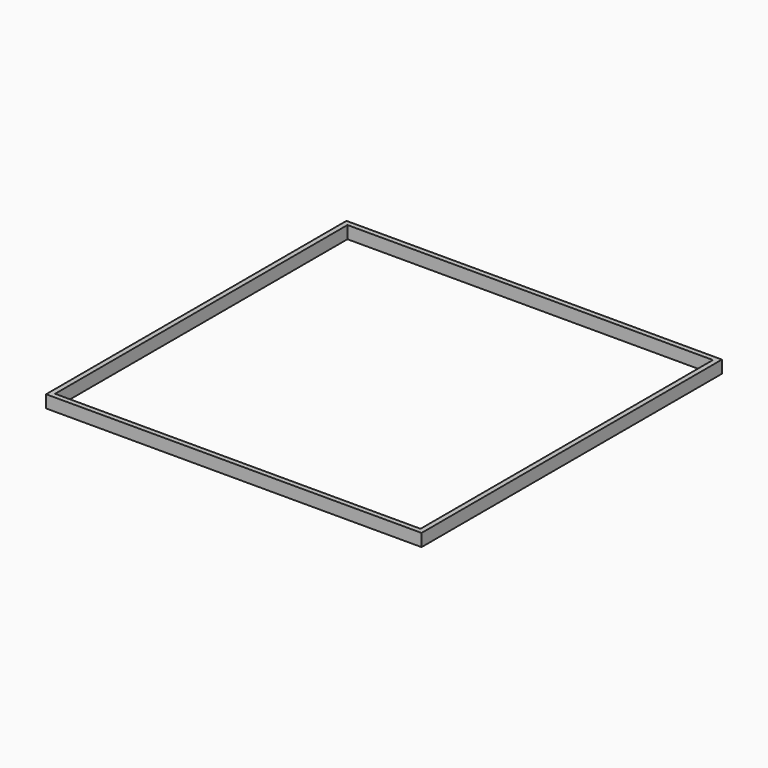
from build123d import *

# Parameters (mm, degrees)
F0_W     = 0.508
F0_H     = 0.508
F1_DEPTH = 1.27
F2_R     = 1.5875
F3_DEPTH = 25.4


with BuildPart() as f1:
    # F0 (on Top) → F1 (new body)
    with BuildSketch(Plane.XY):
        with Locations((18.796, -18.796)):
            Rectangle(F0_W, F0_H)
        with Locations((18.288, -18.796)):
            Rectangle(F0_W, F0_H)
        with Locations((18.796, -18.288)):
            Rectangle(F0_W, F0_H)
        with Locations((17.78, -18.796)):
            Rectangle(F0_W, F0_H)
        with Locations((18.796, -17.78)):
            Rectangle(F0_W, F0_H)
        with Locations((17.272, -18.796)):
            Rectangle(F0_W, F0_H)
        with Locations((18.796, -17.272)):
            Rectangle(F0_W, F0_H)
        with Locations((16.764, -18.796)):
            Rectangle(F0_W, F0_H)
        with Locations((18.796, -16.764)):
            Rectangle(F0_W, F0_H)
        with Locations((16.256, -18.796)):
            Rectangle(F0_W, F0_H)
        with Locations((18.796, -16.256)):
            Rectangle(F0_W, F0_H)
        with Locations((15.748, -18.796)):
            Rectangle(F0_W, F0_H)
        with Locations((18.796, -15.748)):
            Rectangle(F0_W, F0_H)
        with Locations((15.24, -18.796)):
            Rectangle(F0_W, F0_H)
        with Locations((18.796, -15.24)):
            Rectangle(F0_W, F0_H)
        with Locations((14.732, -18.796)):
            Rectangle(F0_W, F0_H)
        with Locations((18.796, -14.732)):
            Rectangle(F0_W, F0_H)
        with Locations((14.224, -18.796)):
            Rectangle(F0_W, F0_H)
        with Locations((18.796, -14.224)):
            Rectangle(F0_W, F0_H)
        with Locations((13.716, -18.796)):
            Rectangle(F0_W, F0_H)
        with Locations((18.796, -13.716)):
            Rectangle(F0_W, F0_H)
        with Locations((13.208, -18.796)):
            Rectangle(F0_W, F0_H)
        with Locations((18.796, -13.208)):
            Rectangle(F0_W, F0_H)
        with Locations((12.7, -18.796)):
            Rectangle(F0_W, F0_H)
        with Locations((18.796, -12.7)):
            Rectangle(F0_W, F0_H)
        with Locations((12.192, -18.796)):
            Rectangle(F0_W, F0_H)
        with Locations((18.796, -12.192)):
            Rectangle(F0_W, F0_H)
        with Locations((11.684, -18.796)):
            Rectangle(F0_W, F0_H)
        with Locations((18.796, -11.684)):
            Rectangle(F0_W, F0_H)
        with Locations((11.176, -18.796)):
            Rectangle(F0_W, F0_H)
        with Locations((18.796, -11.176)):
            Rectangle(F0_W, F0_H)
        with Locations((10.668, -18.796)):
            Rectangle(F0_W, F0_H)
        with Locations((18.796, -10.668)):
            Rectangle(F0_W, F0_H)
        with Locations((10.16, -18.796)):
            Rectangle(F0_W, F0_H)
        with Locations((18.796, -10.16)):
            Rectangle(F0_W, F0_H)
        with Locations((9.652, -18.796)):
            Rectangle(F0_W, F0_H)
        with Locations((18.796, -9.652)):
            Rectangle(F0_W, F0_H)
        with Locations((9.144, -18.796)):
            Rectangle(F0_W, F0_H)
        with Locations((18.796, -9.144)):
            Rectangle(F0_W, F0_H)
        with Locations((8.636, -18.796)):
            Rectangle(F0_W, F0_H)
        with Locations((18.796, -8.636)):
            Rectangle(F0_W, F0_H)
        with Locations((8.128, -18.796)):
            Rectangle(F0_W, F0_H)
        with Locations((18.796, -8.128)):
            Rectangle(F0_W, F0_H)
        with Locations((7.62, -18.796)):
            Rectangle(F0_W, F0_H)
        with Locations((18.796, -7.62)):
            Rectangle(F0_W, F0_H)
        with Locations((7.112, -18.796)):
            Rectangle(F0_W, F0_H)
        with Locations((18.796, -7.112)):
            Rectangle(F0_W, F0_H)
        with Locations((6.604, -18.796)):
            Rectangle(F0_W, F0_H)
        with Locations((18.796, -6.604)):
            Rectangle(F0_W, F0_H)
        with Locations((6.096, -18.796)):
            Rectangle(F0_W, F0_H)
        with Locations((18.796, -6.096)):
            Rectangle(F0_W, F0_H)
        with Locations((5.588, -18.796)):
            Rectangle(F0_W, F0_H)
        with Locations((18.796, -5.588)):
            Rectangle(F0_W, F0_H)
        with Locations((5.08, -18.796)):
            Rectangle(F0_W, F0_H)
        with Locations((18.796, -5.08)):
            Rectangle(F0_W, F0_H)
        with Locations((4.572, -18.796)):
            Rectangle(F0_W, F0_H)
        with Locations((18.796, -4.572)):
            Rectangle(F0_W, F0_H)
        with Locations((4.064, -18.796)):
            Rectangle(F0_W, F0_H)
        with Locations((18.796, -4.064)):
            Rectangle(F0_W, F0_H)
        with Locations((3.556, -18.796)):
            Rectangle(F0_W, F0_H)
        with Locations((18.796, -3.556)):
            Rectangle(F0_W, F0_H)
        with Locations((3.048, -18.796)):
            Rectangle(F0_W, F0_H)
        with Locations((18.796, -3.048)):
            Rectangle(F0_W, F0_H)
        with Locations((2.54, -18.796)):
            Rectangle(F0_W, F0_H)
        with Locations((18.796, -2.54)):
            Rectangle(F0_W, F0_H)
        with Locations((2.032, -18.796)):
            Rectangle(F0_W, F0_H)
        with Locations((18.796, -2.032)):
            Rectangle(F0_W, F0_H)
        with Locations((1.524, -18.796)):
            Rectangle(F0_W, F0_H)
        with Locations((18.796, -1.524)):
            Rectangle(F0_W, F0_H)
        with Locations((1.016, -18.796)):
            Rectangle(F0_W, F0_H)
        with Locations((18.796, -1.016)):
            Rectangle(F0_W, F0_H)
        with Locations((0.508, -18.796)):
            Rectangle(F0_W, F0_H)
        with Locations((18.796, -0.508)):
            Rectangle(F0_W, F0_H)
        with Locations((0, -18.796)):
            Rectangle(F0_W, F0_H)
        with Locations((18.796, 0)):
            Rectangle(F0_W, F0_H)
        with Locations((-0.508, -18.796)):
            Rectangle(F0_W, F0_H)
        with Locations((18.796, 0.508)):
            Rectangle(F0_W, F0_H)
        with Locations((-1.016, -18.796)):
            Rectangle(F0_W, F0_H)
        with Locations((18.796, 1.016)):
            Rectangle(F0_W, F0_H)
        with Locations((-1.524, -18.796)):
            Rectangle(F0_W, F0_H)
        with Locations((18.796, 1.524)):
            Rectangle(F0_W, F0_H)
        with Locations((-2.032, -18.796)):
            Rectangle(F0_W, F0_H)
        with Locations((18.796, 2.032)):
            Rectangle(F0_W, F0_H)
        with Locations((-2.54, -18.796)):
            Rectangle(F0_W, F0_H)
        with Locations((18.796, 2.54)):
            Rectangle(F0_W, F0_H)
        with Locations((-3.048, -18.796)):
            Rectangle(F0_W, F0_H)
        with Locations((18.796, 3.048)):
            Rectangle(F0_W, F0_H)
        with Locations((-3.556, -18.796)):
            Rectangle(F0_W, F0_H)
        with Locations((18.796, 3.556)):
            Rectangle(F0_W, F0_H)
        with Locations((-4.064, -18.796)):
            Rectangle(F0_W, F0_H)
        with Locations((18.796, 4.064)):
            Rectangle(F0_W, F0_H)
        with Locations((-4.572, -18.796)):
            Rectangle(F0_W, F0_H)
        with Locations((18.796, 4.572)):
            Rectangle(F0_W, F0_H)
        with Locations((-5.08, -18.796)):
            Rectangle(F0_W, F0_H)
        with Locations((18.796, 5.08)):
            Rectangle(F0_W, F0_H)
        with Locations((-5.588, -18.796)):
            Rectangle(F0_W, F0_H)
        with Locations((18.796, 5.588)):
            Rectangle(F0_W, F0_H)
        with Locations((-6.096, -18.796)):
            Rectangle(F0_W, F0_H)
        with Locations((18.796, 6.096)):
            Rectangle(F0_W, F0_H)
        with Locations((-6.604, -18.796)):
            Rectangle(F0_W, F0_H)
        with Locations((18.796, 6.604)):
            Rectangle(F0_W, F0_H)
        with Locations((-7.112, -18.796)):
            Rectangle(F0_W, F0_H)
        with Locations((18.796, 7.112)):
            Rectangle(F0_W, F0_H)
        with Locations((-7.62, -18.796)):
            Rectangle(F0_W, F0_H)
        with Locations((18.796, 7.62)):
            Rectangle(F0_W, F0_H)
        with Locations((-8.128, -18.796)):
            Rectangle(F0_W, F0_H)
        with Locations((18.796, 8.128)):
            Rectangle(F0_W, F0_H)
        with Locations((-8.636, -18.796)):
            Rectangle(F0_W, F0_H)
        with Locations((18.796, 8.636)):
            Rectangle(F0_W, F0_H)
        with Locations((-9.144, -18.796)):
            Rectangle(F0_W, F0_H)
        with Locations((18.796, 9.144)):
            Rectangle(F0_W, F0_H)
        with Locations((-9.652, -18.796)):
            Rectangle(F0_W, F0_H)
        with Locations((18.796, 9.652)):
            Rectangle(F0_W, F0_H)
        with Locations((-10.16, -18.796)):
            Rectangle(F0_W, F0_H)
        with Locations((18.796, 10.16)):
            Rectangle(F0_W, F0_H)
        with Locations((-10.668, -18.796)):
            Rectangle(F0_W, F0_H)
        with Locations((18.796, 10.668)):
            Rectangle(F0_W, F0_H)
        with Locations((-11.176, -18.796)):
            Rectangle(F0_W, F0_H)
        with Locations((18.796, 11.176)):
            Rectangle(F0_W, F0_H)
        with Locations((-11.684, -18.796)):
            Rectangle(F0_W, F0_H)
        with Locations((18.796, 11.684)):
            Rectangle(F0_W, F0_H)
        with Locations((-12.192, -18.796)):
            Rectangle(F0_W, F0_H)
        with Locations((18.796, 12.192)):
            Rectangle(F0_W, F0_H)
        with Locations((-12.7, -18.796)):
            Rectangle(F0_W, F0_H)
        with Locations((18.796, 12.7)):
            Rectangle(F0_W, F0_H)
        with Locations((-13.208, -18.796)):
            Rectangle(F0_W, F0_H)
        with Locations((18.796, 13.208)):
            Rectangle(F0_W, F0_H)
        with Locations((-13.716, -18.796)):
            Rectangle(F0_W, F0_H)
        with Locations((18.796, 13.716)):
            Rectangle(F0_W, F0_H)
        with Locations((-14.224, -18.796)):
            Rectangle(F0_W, F0_H)
        with Locations((18.796, 14.224)):
            Rectangle(F0_W, F0_H)
        with Locations((-14.732, -18.796)):
            Rectangle(F0_W, F0_H)
        with Locations((18.796, 14.732)):
            Rectangle(F0_W, F0_H)
        with Locations((-15.24, -18.796)):
            Rectangle(F0_W, F0_H)
        with Locations((18.796, 15.24)):
            Rectangle(F0_W, F0_H)
        with Locations((-15.748, -18.796)):
            Rectangle(F0_W, F0_H)
        with Locations((18.796, 15.748)):
            Rectangle(F0_W, F0_H)
        with Locations((-16.256, -18.796)):
            Rectangle(F0_W, F0_H)
        with Locations((18.796, 16.256)):
            Rectangle(F0_W, F0_H)
        with Locations((-16.764, -18.796)):
            Rectangle(F0_W, F0_H)
        with Locations((18.796, 16.764)):
            Rectangle(F0_W, F0_H)
        with Locations((-17.272, -18.796)):
            Rectangle(F0_W, F0_H)
        with Locations((18.796, 17.272)):
            Rectangle(F0_W, F0_H)
        with Locations((-17.78, -18.796)):
            Rectangle(F0_W, F0_H)
        with Locations((18.796, 17.78)):
            Rectangle(F0_W, F0_H)
        with Locations((-18.288, -18.796)):
            Rectangle(F0_W, F0_H)
        with Locations((18.796, 18.288)):
            Rectangle(F0_W, F0_H)
        with Locations((-18.796, -18.796)):
            Rectangle(F0_W, F0_H)
        with Locations((18.796, 18.796)):
            Rectangle(F0_W, F0_H)
        with Locations((-18.796, -18.288)):
            Rectangle(F0_W, F0_H)
        with Locations((18.288, 18.796)):
            Rectangle(F0_W, F0_H)
        with Locations((-18.796, -17.78)):
            Rectangle(F0_W, F0_H)
        with Locations((17.78, 18.796)):
            Rectangle(F0_W, F0_H)
        with Locations((-18.796, -17.272)):
            Rectangle(F0_W, F0_H)
        with Locations((17.272, 18.796)):
            Rectangle(F0_W, F0_H)
        with Locations((-18.796, -16.764)):
            Rectangle(F0_W, F0_H)
        with Locations((16.764, 18.796)):
            Rectangle(F0_W, F0_H)
        with Locations((-18.796, -16.256)):
            Rectangle(F0_W, F0_H)
        with Locations((16.256, 18.796)):
            Rectangle(F0_W, F0_H)
        with Locations((-18.796, -15.748)):
            Rectangle(F0_W, F0_H)
        with Locations((15.748, 18.796)):
            Rectangle(F0_W, F0_H)
        with Locations((-18.796, -15.24)):
            Rectangle(F0_W, F0_H)
        with Locations((15.24, 18.796)):
            Rectangle(F0_W, F0_H)
        with Locations((-18.796, -14.732)):
            Rectangle(F0_W, F0_H)
        with Locations((14.732, 18.796)):
            Rectangle(F0_W, F0_H)
        with Locations((-18.796, -14.224)):
            Rectangle(F0_W, F0_H)
        with Locations((14.224, 18.796)):
            Rectangle(F0_W, F0_H)
        with Locations((-18.796, -13.716)):
            Rectangle(F0_W, F0_H)
        with Locations((13.716, 18.796)):
            Rectangle(F0_W, F0_H)
        with Locations((-18.796, -13.208)):
            Rectangle(F0_W, F0_H)
        with Locations((13.208, 18.796)):
            Rectangle(F0_W, F0_H)
        with Locations((-18.796, -12.7)):
            Rectangle(F0_W, F0_H)
        with Locations((12.7, 18.796)):
            Rectangle(F0_W, F0_H)
        with Locations((-18.796, -12.192)):
            Rectangle(F0_W, F0_H)
        with Locations((12.192, 18.796)):
            Rectangle(F0_W, F0_H)
        with Locations((-18.796, -11.684)):
            Rectangle(F0_W, F0_H)
        with Locations((11.684, 18.796)):
            Rectangle(F0_W, F0_H)
        with Locations((-18.796, -11.176)):
            Rectangle(F0_W, F0_H)
        with Locations((11.176, 18.796)):
            Rectangle(F0_W, F0_H)
        with Locations((-18.796, -10.668)):
            Rectangle(F0_W, F0_H)
        with Locations((10.668, 18.796)):
            Rectangle(F0_W, F0_H)
        with Locations((-18.796, -10.16)):
            Rectangle(F0_W, F0_H)
        with Locations((10.16, 18.796)):
            Rectangle(F0_W, F0_H)
        with Locations((-18.796, -9.652)):
            Rectangle(F0_W, F0_H)
        with Locations((9.652, 18.796)):
            Rectangle(F0_W, F0_H)
        with Locations((-18.796, -9.144)):
            Rectangle(F0_W, F0_H)
        with Locations((9.144, 18.796)):
            Rectangle(F0_W, F0_H)
        with Locations((-18.796, -8.636)):
            Rectangle(F0_W, F0_H)
        with Locations((8.636, 18.796)):
            Rectangle(F0_W, F0_H)
        with Locations((-18.796, -8.128)):
            Rectangle(F0_W, F0_H)
        with Locations((8.128, 18.796)):
            Rectangle(F0_W, F0_H)
        with Locations((-18.796, -7.62)):
            Rectangle(F0_W, F0_H)
        with Locations((7.62, 18.796)):
            Rectangle(F0_W, F0_H)
        with Locations((-18.796, -7.112)):
            Rectangle(F0_W, F0_H)
        with Locations((7.112, 18.796)):
            Rectangle(F0_W, F0_H)
        with Locations((-18.796, -6.604)):
            Rectangle(F0_W, F0_H)
        with Locations((6.604, 18.796)):
            Rectangle(F0_W, F0_H)
        with Locations((-18.796, -6.096)):
            Rectangle(F0_W, F0_H)
        with Locations((6.096, 18.796)):
            Rectangle(F0_W, F0_H)
        with Locations((-18.796, -5.588)):
            Rectangle(F0_W, F0_H)
        with Locations((5.588, 18.796)):
            Rectangle(F0_W, F0_H)
        with Locations((-18.796, -5.08)):
            Rectangle(F0_W, F0_H)
        with Locations((5.08, 18.796)):
            Rectangle(F0_W, F0_H)
        with Locations((-18.796, -4.572)):
            Rectangle(F0_W, F0_H)
        with Locations((4.572, 18.796)):
            Rectangle(F0_W, F0_H)
        with Locations((-18.796, -4.064)):
            Rectangle(F0_W, F0_H)
        with Locations((4.064, 18.796)):
            Rectangle(F0_W, F0_H)
        with Locations((-18.796, -3.556)):
            Rectangle(F0_W, F0_H)
        with Locations((3.556, 18.796)):
            Rectangle(F0_W, F0_H)
        with Locations((-18.796, -3.048)):
            Rectangle(F0_W, F0_H)
        with Locations((3.048, 18.796)):
            Rectangle(F0_W, F0_H)
        with Locations((-18.796, -2.54)):
            Rectangle(F0_W, F0_H)
        with Locations((2.54, 18.796)):
            Rectangle(F0_W, F0_H)
        with Locations((-18.796, -2.032)):
            Rectangle(F0_W, F0_H)
        with Locations((2.032, 18.796)):
            Rectangle(F0_W, F0_H)
        with Locations((-18.796, -1.524)):
            Rectangle(F0_W, F0_H)
        with Locations((1.524, 18.796)):
            Rectangle(F0_W, F0_H)
        with Locations((-18.796, -1.016)):
            Rectangle(F0_W, F0_H)
        with Locations((1.016, 18.796)):
            Rectangle(F0_W, F0_H)
        with Locations((-18.796, -0.508)):
            Rectangle(F0_W, F0_H)
        with Locations((0.508, 18.796)):
            Rectangle(F0_W, F0_H)
        with Locations((-18.796, 0)):
            Rectangle(F0_W, F0_H)
        with Locations((0, 18.796)):
            Rectangle(F0_W, F0_H)
        with Locations((-18.796, 0.508)):
            Rectangle(F0_W, F0_H)
        with Locations((-0.508, 18.796)):
            Rectangle(F0_W, F0_H)
        with Locations((-18.796, 1.016)):
            Rectangle(F0_W, F0_H)
        with Locations((-1.016, 18.796)):
            Rectangle(F0_W, F0_H)
        with Locations((-18.796, 1.524)):
            Rectangle(F0_W, F0_H)
        with Locations((-1.524, 18.796)):
            Rectangle(F0_W, F0_H)
        with Locations((-18.796, 2.032)):
            Rectangle(F0_W, F0_H)
        with Locations((-2.032, 18.796)):
            Rectangle(F0_W, F0_H)
        with Locations((-18.796, 2.54)):
            Rectangle(F0_W, F0_H)
        with Locations((-2.54, 18.796)):
            Rectangle(F0_W, F0_H)
        with Locations((-18.796, 3.048)):
            Rectangle(F0_W, F0_H)
        with Locations((-3.048, 18.796)):
            Rectangle(F0_W, F0_H)
        with Locations((-18.796, 3.556)):
            Rectangle(F0_W, F0_H)
        with Locations((-3.556, 18.796)):
            Rectangle(F0_W, F0_H)
        with Locations((-18.796, 4.064)):
            Rectangle(F0_W, F0_H)
        with Locations((-4.064, 18.796)):
            Rectangle(F0_W, F0_H)
        with Locations((-18.796, 4.572)):
            Rectangle(F0_W, F0_H)
        with Locations((-4.572, 18.796)):
            Rectangle(F0_W, F0_H)
        with Locations((-18.796, 5.08)):
            Rectangle(F0_W, F0_H)
        with Locations((-5.08, 18.796)):
            Rectangle(F0_W, F0_H)
        with Locations((-18.796, 5.588)):
            Rectangle(F0_W, F0_H)
        with Locations((-5.588, 18.796)):
            Rectangle(F0_W, F0_H)
        with Locations((-18.796, 6.096)):
            Rectangle(F0_W, F0_H)
        with Locations((-6.096, 18.796)):
            Rectangle(F0_W, F0_H)
        with Locations((-18.796, 6.604)):
            Rectangle(F0_W, F0_H)
        with Locations((-6.604, 18.796)):
            Rectangle(F0_W, F0_H)
        with Locations((-18.796, 7.112)):
            Rectangle(F0_W, F0_H)
        with Locations((-7.112, 18.796)):
            Rectangle(F0_W, F0_H)
        with Locations((-18.796, 7.62)):
            Rectangle(F0_W, F0_H)
        with Locations((-7.62, 18.796)):
            Rectangle(F0_W, F0_H)
        with Locations((-18.796, 8.128)):
            Rectangle(F0_W, F0_H)
        with Locations((-8.128, 18.796)):
            Rectangle(F0_W, F0_H)
        with Locations((-18.796, 8.636)):
            Rectangle(F0_W, F0_H)
        with Locations((-8.636, 18.796)):
            Rectangle(F0_W, F0_H)
        with Locations((-18.796, 9.144)):
            Rectangle(F0_W, F0_H)
        with Locations((-9.144, 18.796)):
            Rectangle(F0_W, F0_H)
        with Locations((-18.796, 9.652)):
            Rectangle(F0_W, F0_H)
        with Locations((-9.652, 18.796)):
            Rectangle(F0_W, F0_H)
        with Locations((-18.796, 10.16)):
            Rectangle(F0_W, F0_H)
        with Locations((-10.16, 18.796)):
            Rectangle(F0_W, F0_H)
        with Locations((-18.796, 10.668)):
            Rectangle(F0_W, F0_H)
        with Locations((-10.668, 18.796)):
            Rectangle(F0_W, F0_H)
        with Locations((-18.796, 11.176)):
            Rectangle(F0_W, F0_H)
        with Locations((-11.176, 18.796)):
            Rectangle(F0_W, F0_H)
        with Locations((-18.796, 11.684)):
            Rectangle(F0_W, F0_H)
        with Locations((-11.684, 18.796)):
            Rectangle(F0_W, F0_H)
        with Locations((-18.796, 12.192)):
            Rectangle(F0_W, F0_H)
        with Locations((-12.192, 18.796)):
            Rectangle(F0_W, F0_H)
        with Locations((-18.796, 12.7)):
            Rectangle(F0_W, F0_H)
        with Locations((-12.7, 18.796)):
            Rectangle(F0_W, F0_H)
        with Locations((-18.796, 13.208)):
            Rectangle(F0_W, F0_H)
        with Locations((-13.208, 18.796)):
            Rectangle(F0_W, F0_H)
        with Locations((-18.796, 13.716)):
            Rectangle(F0_W, F0_H)
        with Locations((-13.716, 18.796)):
            Rectangle(F0_W, F0_H)
        with Locations((-18.796, 14.224)):
            Rectangle(F0_W, F0_H)
        with Locations((-14.224, 18.796)):
            Rectangle(F0_W, F0_H)
        with Locations((-18.796, 14.732)):
            Rectangle(F0_W, F0_H)
        with Locations((-14.732, 18.796)):
            Rectangle(F0_W, F0_H)
        with Locations((-18.796, 15.24)):
            Rectangle(F0_W, F0_H)
        with Locations((-15.24, 18.796)):
            Rectangle(F0_W, F0_H)
        with Locations((-18.796, 15.748)):
            Rectangle(F0_W, F0_H)
        with Locations((-15.748, 18.796)):
            Rectangle(F0_W, F0_H)
        with Locations((-18.796, 16.256)):
            Rectangle(F0_W, F0_H)
        with Locations((-16.256, 18.796)):
            Rectangle(F0_W, F0_H)
        with Locations((-18.796, 16.764)):
            Rectangle(F0_W, F0_H)
        with Locations((-16.764, 18.796)):
            Rectangle(F0_W, F0_H)
        with Locations((-18.796, 17.272)):
            Rectangle(F0_W, F0_H)
        with Locations((-17.272, 18.796)):
            Rectangle(F0_W, F0_H)
        with Locations((-18.796, 17.78)):
            Rectangle(F0_W, F0_H)
        with Locations((-17.78, 18.796)):
            Rectangle(F0_W, F0_H)
        with Locations((-18.796, 18.288)):
            Rectangle(F0_W, F0_H)
        with Locations((-18.288, 18.796)):
            Rectangle(F0_W, F0_H)
        with Locations((-18.796, 18.796)):
            Rectangle(F0_W, F0_H)
    extrude(amount=F1_DEPTH)

    # F2 (on Top) → F3 (cut)
    with BuildSketch(Plane.XY):
        with Locations((13.97, 13.97)):
            Circle(F2_R)
    extrude(amount=F3_DEPTH, mode=Mode.SUBTRACT)

    # F4: F1 across plane


with BuildPart() as f1_1:
    add(f1.part)
    add(f1.part.mirror(Plane.YZ), mode=Mode.INTERSECT)

    # F5: F1 across plane


with BuildPart() as f1_2:
    add(f1_1.part)
    add(f1_1.part.mirror(Plane.XZ), mode=Mode.INTERSECT)


solid = f1_2.part
